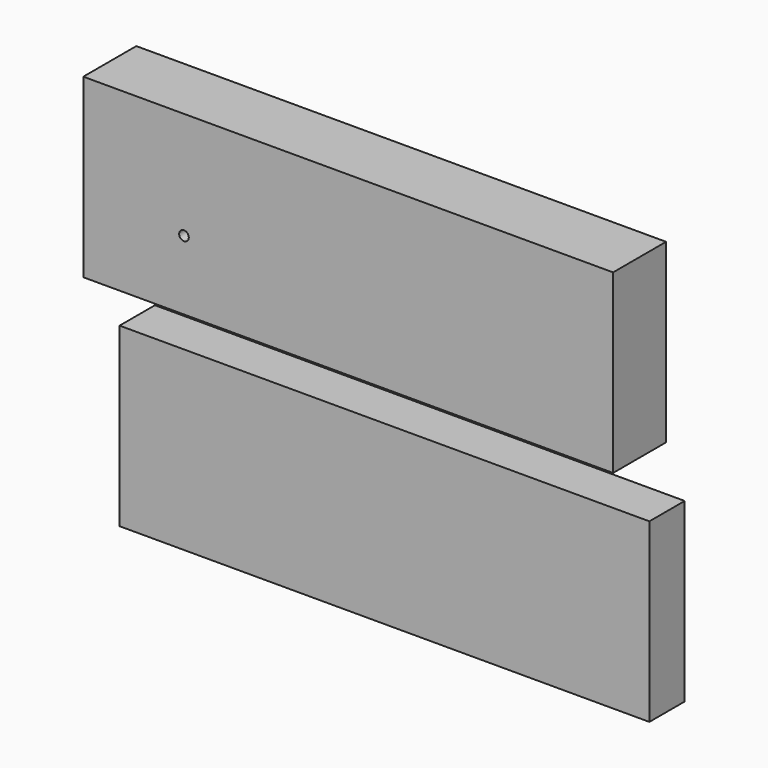
from build123d import *

# Parameters (mm, degrees)
F0_W     = 152.4
F0_H     = 50.8
F0_R     = 1.3843
F1_DEPTH = 9.525
F2_W     = 152.4
F2_H     = 50.8
F3_DEPTH = 6.35


with BuildPart() as f1:
    # F0 (on Front) → F1 (new body, symmetric)
    with BuildSketch(Plane.XZ):
        with Locations((-9.25152, 0.506866)):
            Rectangle(F0_W, F0_H)
        with Locations((-56.49552, -4.954134)):
            Circle(F0_R, mode=Mode.SUBTRACT)
    extrude(amount=F1_DEPTH, both=True)


with BuildPart() as f3:
    # F2 (on Front) → F3 (new body, symmetric)
    with BuildSketch(Plane.XZ):
        with Locations((-1.354463, -61.263203)):
            Rectangle(F2_W, F2_H)
    extrude(amount=F3_DEPTH, both=True)


solid = Compound([f1.part, f3.part])
